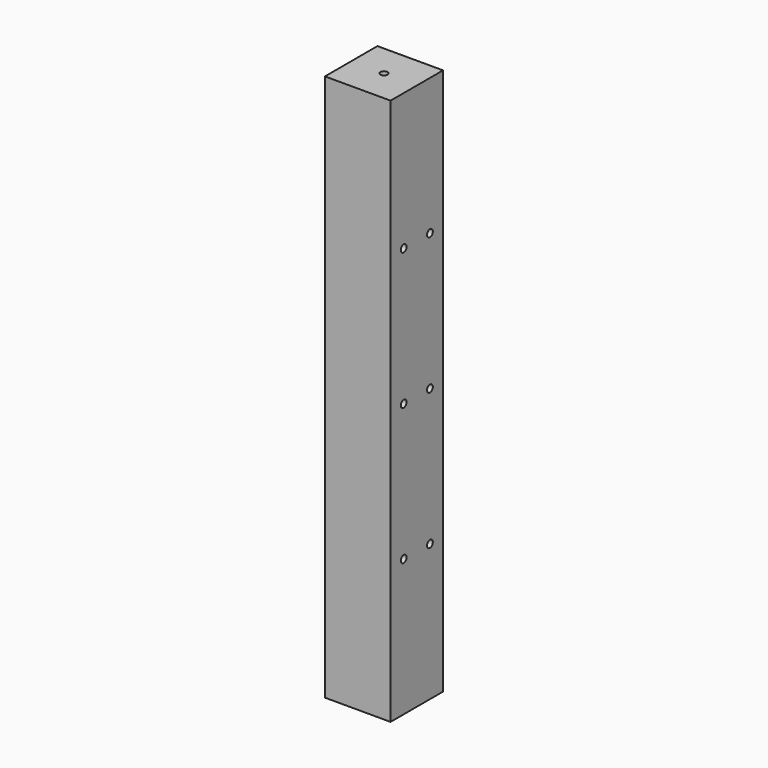
from build123d import *

# Parameters (mm, degrees)
F0_W     = 60
F0_H     = 60
F1_DEPTH = 500
F3_D     = 6.6
F5_D     = 6.6


with BuildPart() as f1:
    # F0 (on Top) → F1 (new body)
    with BuildSketch(Plane.XY):
        Rectangle(F0_W, F0_H)
    extrude(amount=F1_DEPTH)

    # F3 (through all)
    with Locations(Plane.XY.offset(500)):
        with Locations((0, 0)):
            Hole(F3_D / 2)

    # F5 (through all)
    with Locations(Plane.YZ.offset(30)):
        with Locations((-15, 375), (15, 375), (15, 250), (15, 125), (-15, 125), (-15, 250)):
            Hole(F5_D / 2)


solid = f1.part
